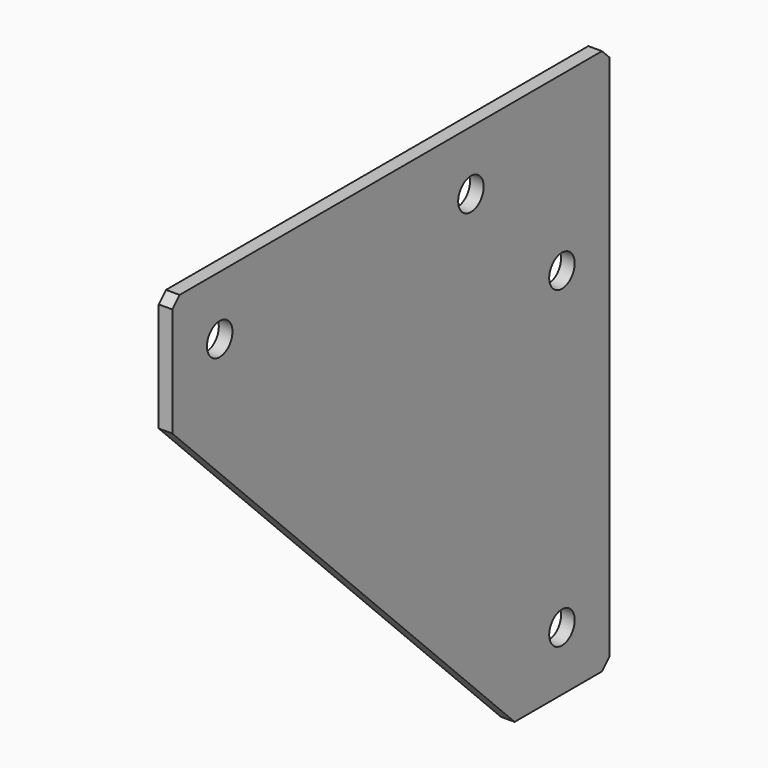
from build123d import *

# Parameters (mm, degrees)
F0_R     = 3.5
F1_DEPTH = 1.5
F2_SIZE  = 2


with BuildPart() as f1:
    # F0 (on Right) → F1 (new body, symmetric)
    with BuildSketch(Plane.YZ):
        Polygon((-73, -73), (0, 0), (-120, 0), (-120, -26), align=None)
        with Locations((-107, -13)):
            Circle(F0_R, mode=Mode.SUBTRACT)
        with Locations((-38, -13)):
            Circle(F0_R, mode=Mode.SUBTRACT)
        Polygon((0, -120), (0, 0), (-73, -73), (-26, -120), align=None)
        with Locations((-13, -107)):
            Circle(F0_R, mode=Mode.SUBTRACT)
        with Locations((-13, -38)):
            Circle(F0_R, mode=Mode.SUBTRACT)
    extrude(amount=F1_DEPTH, both=True)

    # F2
    f2_edges = [f1.edges().sort_by_distance(p)[0] for p in [
        (0, -120, 0),
        (0, 0, 0),
        (0, 0, -120),
    ]]
    chamfer(f2_edges, length=F2_SIZE)


solid = f1.part
